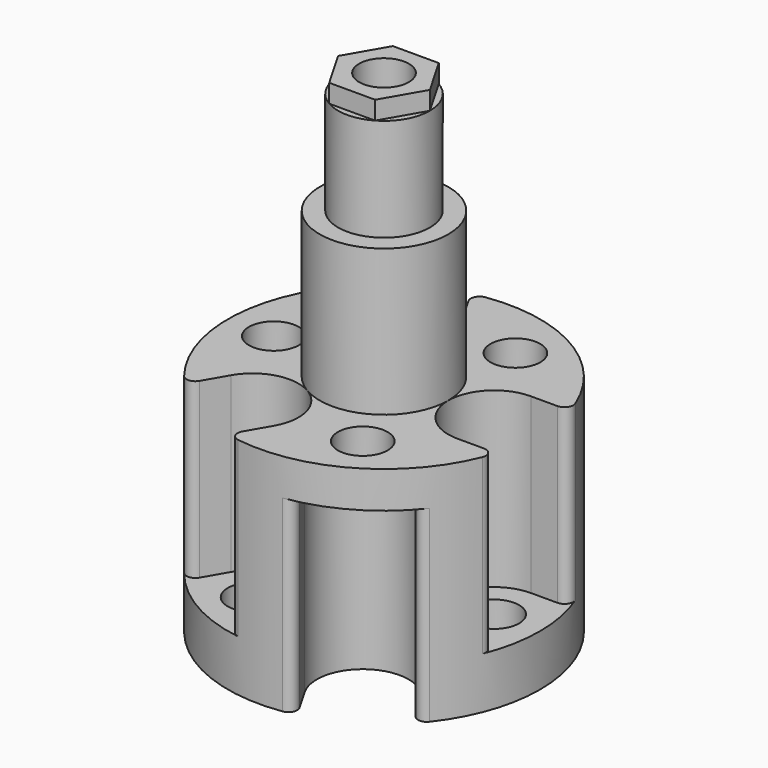
from build123d import *

# Parameters (mm, degrees)
F0_R      = 13.49375
F0_R_2    = 2.15265
F1_DEPTH  = 19.4183
F5_DEPTH  = 14.9733
F7_DEPTH  = 16.2433
F8_R      = 5.55625
F8_R_2    = 2.15265
F9_DEPTH  = 12.6492
F10_R     = 3.96875
F10_R_2   = 2.15265
F11_DEPTH = 8.89
F12_R     = 2.15265
F13_DEPTH = 1.5875
F14_R     = 0.762


with BuildPart() as f1:
    # F0 (on Top) → F1 (new body)
    with BuildSketch(Plane.XY):
        Circle(F0_R)
        with Locations((-4.7625, -8.248892)):
            Circle(F0_R_2, mode=Mode.SUBTRACT)
        with Locations((4.7625, -8.248892)):
            Circle(F0_R_2, mode=Mode.SUBTRACT)
        with Locations((-9.525, 0)):
            Circle(F0_R_2, mode=Mode.SUBTRACT)
        with Locations((-4.7625, 8.248892)):
            Circle(F0_R_2, mode=Mode.SUBTRACT)
        Circle(F0_R_2, mode=Mode.SUBTRACT)
        with Locations((9.525, 0)):
            Circle(F0_R_2, mode=Mode.SUBTRACT)
        with Locations((4.7625, 8.248892)):
            Circle(F0_R_2, mode=Mode.SUBTRACT)
    extrude(amount=F1_DEPTH)

    # F4 (on face) → F5 (cut, through all)
    with BuildSketch(Plane.XY.offset(19.4183)):
        with BuildLine():
            Line((-3.309837, 13.670305), (-10.183913, 9.701555))
            Line((-10.183913, 9.701555), (-8.199538, 6.264517))
            ThreePointArc((-8.199538, 6.264517), (-2.778125, 4.811854), (-1.325462, 10.233267))
            Line((-1.325462, 10.233267), (-3.309837, 13.670305))
        make_face()
        with BuildLine():
            Line((13.49375, 3.96875), (9.525, 3.96875))
            ThreePointArc((9.525, 3.96875), (5.55625, 0), (9.525, -3.96875))
            Line((9.525, -3.96875), (13.49375, -3.96875))
            Line((13.49375, -3.96875), (13.49375, 3.96875))
        make_face()
        with BuildLine():
            Line((-8.199538, -6.264517), (-10.183913, -9.701555))
            Line((-10.183913, -9.701555), (-3.309837, -13.670305))
            Line((-3.309837, -13.670305), (-1.325462, -10.233267))
            ThreePointArc((-1.325462, -10.233267), (-2.778125, -4.811854), (-8.199538, -6.264517))
        make_face()
    extrude(amount=-F5_DEPTH, mode=Mode.SUBTRACT)

    # F6 (on face) → F7 (cut, through all)
    with BuildSketch(Plane(origin=(0, 0, 0), x_dir=(1, 0, 0), z_dir=(0, 0, -1))):
        with BuildLine():
            Line((1.325462, -10.233267), (3.309837, -13.670305))
            Line((3.309837, -13.670305), (10.183913, -9.701555))
            Line((10.183913, -9.701555), (8.199538, -6.264517))
            ThreePointArc((8.199538, -6.264517), (2.778125, -4.811854), (1.325462, -10.233267))
        make_face()
        with BuildLine():
            Line((10.183913, 9.701555), (3.309837, 13.670305))
            Line((3.309837, 13.670305), (1.325462, 10.233267))
            ThreePointArc((1.325462, 10.233267), (2.778125, 4.811854), (8.199538, 6.264517))
            Line((8.199538, 6.264517), (10.183913, 9.701555))
        make_face()
        with BuildLine():
            Line((-9.525, 3.96875), (-13.49375, 3.96875))
            Line((-13.49375, 3.96875), (-13.49375, -3.96875))
            Line((-13.49375, -3.96875), (-9.525, -3.96875))
            ThreePointArc((-9.525, -3.96875), (-5.55625, 0), (-9.525, 3.96875))
        make_face()
    extrude(amount=-F7_DEPTH, mode=Mode.SUBTRACT)

    # F8 (on face) → F9 (join)
    with BuildSketch(Plane.XY.offset(19.4183)):
        Circle(F8_R)
        Circle(F8_R_2, mode=Mode.SUBTRACT)
    extrude(amount=F9_DEPTH)

    # F10 (on face) → F11 (join)
    with BuildSketch(Plane.XY.offset(32.0675)):
        Circle(F10_R)
        Circle(F10_R_2, mode=Mode.SUBTRACT)
    extrude(amount=F11_DEPTH)

    # F12 (on face) → F13 (join)
    with BuildSketch(Plane.XY.offset(40.9575)):
        Polygon((1.984375, 3.437038), (-1.984375, 3.437038), (-3.96875, 0), (-1.984375, -3.437038), (1.984375, -3.437038), (3.96875, 0), align=None)
        Circle(F12_R, mode=Mode.SUBTRACT)
    extrude(amount=F13_DEPTH)

    # F14
    f14_edges = [f1.edges().sort_by_distance(p)[0] for p in [
        (-9.885494, -9.184678, 11.93165),
        (3.011417, -13.153428, 8.12165),
        (9.885494, -9.184678, 8.12165),
        (12.896911, 3.96875, 11.93165),
        (12.896911, -3.96875, 11.93165),
        (-3.011417, -13.153428, 11.93165),
        (9.885494, 9.184678, 8.12165),
        (3.011417, 13.153428, 8.12165),
        (-3.011417, 13.153428, 11.93165),
        (-9.885494, 9.184678, 11.93165),
        (-12.896911, 3.96875, 8.12165),
        (-12.896911, -3.96875, 8.12165),
    ]]
    fillet(f14_edges, radius=F14_R)


solid = f1.part
